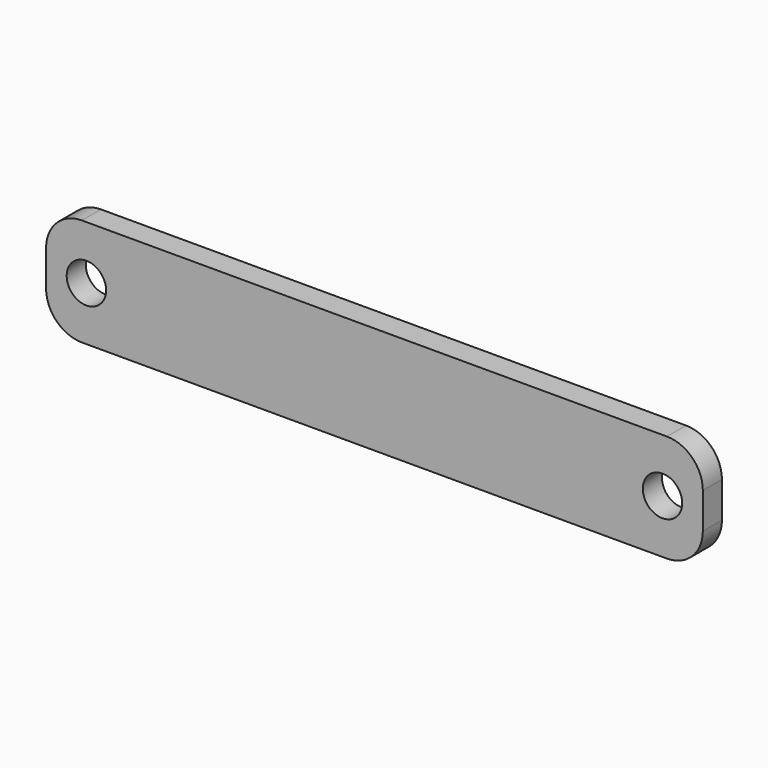
from build123d import *

# Parameters (mm, degrees)
F1_DEPTH = 2
F2_D     = 3.3
F2_DEPTH = 13.5
F2_TIP   = 0.9914200214


with BuildPart() as f1:
    # F0 (on Front) → F1 (new body)
    with BuildSketch(Plane.XZ):
        with BuildLine():
            Line((-24.5, -4.5), (24.5, -4.5))
            ThreePointArc((24.5, -4.5), (26.6213203436, -3.6213203436), (27.5, -1.5))
            Line((27.5, -1.5), (27.5, 1.5))
            ThreePointArc((27.5, 1.5), (26.6213203436, 3.6213203436), (24.5, 4.5))
            Line((24.5, 4.5), (-24.5, 4.5))
            ThreePointArc((-24.5, 4.5), (-26.6213203436, 3.6213203436), (-27.5, 1.5))
            Line((-27.5, 1.5), (-27.5, -1.5))
            ThreePointArc((-27.5, -1.5), (-26.6213203436, -3.6213203436), (-24.5, -4.5))
        make_face()
    extrude(amount=F1_DEPTH)

    # F2
    with Locations(Plane(origin=(0, 0, 0), x_dir=(1, 0, 0), z_dir=(0, 1, 0))):
        with Locations((24.125, 0), (-24.125, 0)):
            Hole(F2_D / 2, depth=F2_DEPTH)
            with Locations((0, 0, -(F2_DEPTH + F2_TIP / 2))):  # 118° drill point
                Cone(0, F2_D / 2, F2_TIP, mode=Mode.SUBTRACT)


solid = f1.part
